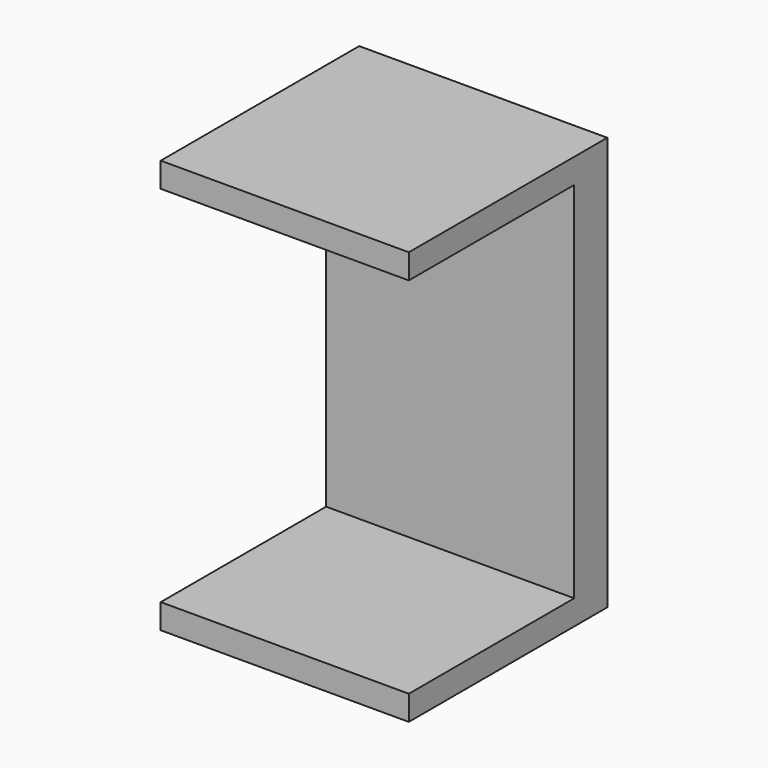
from build123d import *

# Parameters (mm, degrees)
F1_DEPTH = 15


with BuildPart() as f1:
    # F0 (on Right) → F1 (new body, symmetric)
    with BuildSketch(Plane.YZ):
        Polygon((0, -1.8719722131), (-30, -1.8719722131), (-30, -4.8719722131), (-5, -4.8719722131), (-5, -48.8719722131), (-30, -48.8719722131), (-30, -51.8719722131), (0, -51.8719722131), align=None)
    extrude(amount=F1_DEPTH, both=True)


with BuildPart() as f1_1:
    # F2: moved
    add(f1.part.moved(Location((0, 3.7136785686, 28.4729581326))))


solid = f1_1.part
